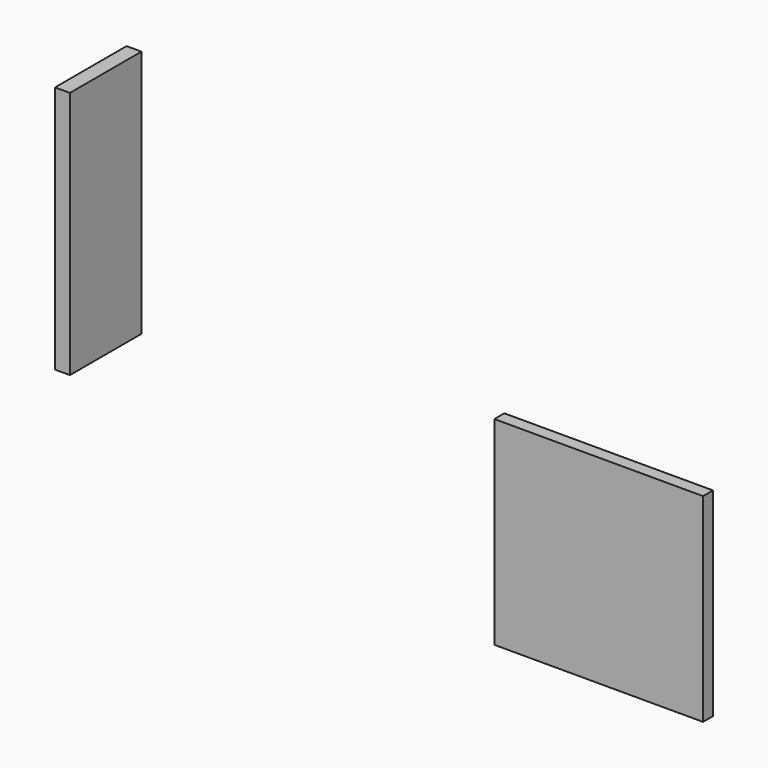
from build123d import *

# Parameters (mm, degrees)
BOX001_W     = 42
BOX001_H     = 2.5
BOX001_DEPTH = 40
BOX002_W     = 3
BOX002_H     = 18
BOX002_DEPTH = 50


with BuildPart() as flansch:
    # Box001 → Box001 (new body)
    with BuildSketch(Plane(origin=(110, 125, -2), x_dir=(1, 0, 0), z_dir=(0, 0, 1))):
        with Locations((21, 1.25)):
            Rectangle(BOX001_W, BOX001_H)
    extrude(amount=BOX001_DEPTH)


with BuildPart() as fusion002:
    # Box002 → Box002 (new body)
    with BuildSketch(Plane(origin=(0, 152, 0), x_dir=(1, 0, 0), z_dir=(0, 0, 1))):
        with Locations((1.5, 9)):
            Rectangle(BOX002_W, BOX002_H)
    extrude(amount=BOX002_DEPTH)

    # Fusion002: union Flansch
    add(flansch.part)


solid = fusion002.part
